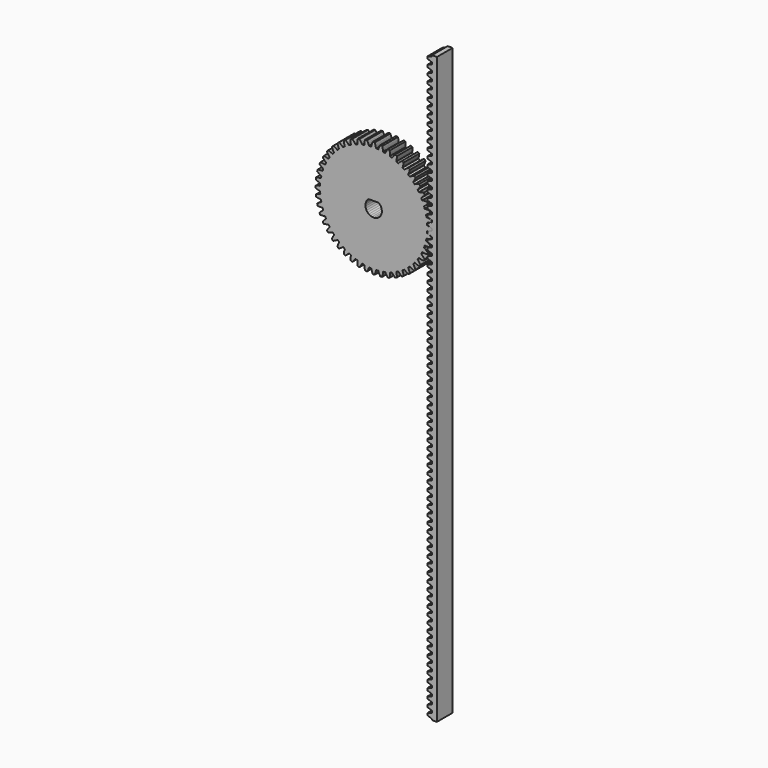
from build123d import *

# Parameters (mm, degrees)
F1_DEPTH = 6


with BuildPart() as f1:
    # F0 (on Front) → F1 (new body)
    with BuildSketch(Plane.XZ):
        Polygon((16.365782, 45.806489), (16.365782, 45.492196), (14.929314, 45.000895), (14.929314, 44.377619), (16.365782, 43.886318), (16.365782, 43.257733), (14.929314, 42.766432), (14.929314, 42.143156), (16.365782, 41.651855), (16.365782, 41.023271), (14.929314, 40.531969), (14.929314, 39.908693), (16.365782, 39.417392), (16.365782, 38.788808), (14.929314, 38.297507), (14.929314, 37.674231), (16.365782, 37.182929), (16.365782, 36.554345), (14.929314, 36.063044), (14.929314, 35.439768), (16.365782, 34.948467), (16.365782, 34.319882), (14.929314, 33.828581), (14.929314, 33.205305), (16.365782, 32.714004), (16.365782, 32.085419), (14.929314, 31.594118), (14.929314, 30.970842), (16.365782, 30.479541), (16.365782, 29.850956), (14.929314, 29.359655), (14.929314, 28.736379), (16.365782, 28.245078), (16.365782, 27.616493), (14.929314, 27.125192), (14.929314, 26.501916), (16.365782, 26.010615), (16.365782, 25.382031), (14.929314, 24.890729), (14.929314, 24.267453), (16.365782, 23.776152), (16.365782, 23.147568), (14.929314, 22.656267), (14.929314, 22.032991), (16.365782, 21.541689), (16.365782, 20.913105), (14.929314, 20.421804), (14.929314, 19.798528), (16.365782, 19.307227), (16.365782, 18.678642), (14.929314, 18.187341), (14.929314, 17.564065), (16.365782, 17.072764), (16.365782, 16.444179), (14.929314, 15.952878), (14.929314, 15.329602), (16.365782, 14.838301), (16.365782, 14.209716), (14.929314, 13.718415), (14.929314, 13.095139), (16.365782, 12.603838), (16.365782, 11.975253), (14.929314, 11.483952), (14.929314, 10.860676), (16.365782, 10.369375), (16.365782, 9.740791), (14.929314, 9.249489), (14.929314, 8.626213), (16.365782, 8.134912), (16.365782, 7.506328), (14.929314, 7.015027), (14.929314, 6.391751), (16.365782, 5.900449), (16.365782, 5.271865), (14.929314, 4.780564), (14.929314, 4.157288), (16.365782, 3.665987), (16.365782, 3.037402), (14.929314, 2.546101), (14.929314, 1.922825), (16.365782, 1.431524), (16.365782, 0.802939), (14.929314, 0.311638), (14.929314, -0.311638), (16.365782, -0.802939), (16.365782, -1.431524), (14.929314, -1.922825), (14.929314, -2.546101), (16.365782, -3.037402), (16.365782, -3.665987), (14.929314, -4.157288), (14.929314, -4.780564), (16.365782, -5.271865), (16.365782, -5.900449), (14.929314, -6.391751), (14.929314, -7.015027), (16.365782, -7.506328), (16.365782, -8.134912), (14.929314, -8.626213), (14.929314, -9.249489), (16.365782, -9.740791), (16.365782, -10.369375), (14.929314, -10.860676), (14.929314, -11.483952), (16.365782, -11.975253), (16.365782, -12.603838), (14.929314, -13.095139), (14.929314, -13.718415), (16.365782, -14.209716), (16.365782, -14.838301), (14.929314, -15.329602), (14.929314, -15.952878), (16.365782, -16.444179), (16.365782, -17.072764), (14.929314, -17.564065), (14.929314, -18.187341), (16.365782, -18.678642), (16.365782, -19.307227), (14.929314, -19.798528), (14.929314, -20.421804), (16.365782, -20.913105), (16.365782, -21.541689), (14.929314, -22.032991), (14.929314, -22.656267), (16.365782, -23.147568), (16.365782, -23.776152), (14.929314, -24.267453), (14.929314, -24.890729), (16.365782, -25.382031), (16.365782, -26.010615), (14.929314, -26.501916), (14.929314, -27.125192), (16.365782, -27.616493), (16.365782, -28.245078), (14.929314, -28.736379), (14.929314, -29.359655), (16.365782, -29.850956), (16.365782, -30.479541), (14.929314, -30.970842), (14.929314, -31.594118), (16.365782, -32.085419), (16.365782, -32.714004), (14.929314, -33.205305), (14.929314, -33.828581), (16.365782, -34.319882), (16.365782, -34.948467), (14.929314, -35.439768), (14.929314, -36.063044), (16.365782, -36.554345), (16.365782, -37.182929), (14.929314, -37.674231), (14.929314, -38.297507), (16.365782, -38.788808), (16.365782, -39.417392), (14.929314, -39.908693), (14.929314, -40.531969), (16.365782, -41.023271), (16.365782, -41.651855), (14.929314, -42.143156), (14.929314, -42.766432), (16.365782, -43.257733), (16.365782, -43.886318), (14.929314, -44.377619), (14.929314, -45.000895), (16.365782, -45.492196), (16.365782, -46.072764), (14.929314, -46.564065), (14.929314, -47.187341), (16.365782, -47.678642), (16.365782, -48.307227), (14.929314, -48.798528), (14.929314, -49.421804), (16.365782, -49.913105), (16.365782, -50.541689), (14.929314, -51.032991), (14.929314, -51.656267), (16.365782, -52.147568), (16.365782, -52.776152), (14.929314, -53.267453), (14.929314, -53.890729), (16.365782, -54.382031), (16.365782, -55.010615), (14.929314, -55.501916), (14.929314, -56.125192), (16.365782, -56.616493), (16.365782, -57.245078), (14.929314, -57.736379), (14.929314, -58.359655), (16.365782, -58.850956), (16.365782, -59.479541), (14.929314, -59.970842), (14.929314, -60.594118), (16.365782, -61.085419), (16.365782, -61.714004), (14.929314, -62.205305), (14.929314, -62.828581), (16.365782, -63.319882), (16.365782, -63.948467), (14.929314, -64.439768), (14.929314, -65.063044), (16.365782, -65.554345), (16.365782, -66.182929), (14.929314, -66.674231), (14.929314, -67.297507), (16.365782, -67.788808), (16.365782, -68.417392), (14.929314, -68.908693), (14.929314, -69.531969), (16.365782, -70.023271), (16.365782, -70.651855), (14.929314, -71.143156), (14.929314, -71.766432), (16.365782, -72.257733), (16.365782, -72.886318), (14.929314, -73.377619), (14.929314, -74.000895), (16.365782, -74.492196), (16.365782, -75.072764), (14.929314, -75.564065), (14.929314, -76.187341), (16.365782, -76.678642), (16.365782, -77.307227), (14.929314, -77.798528), (14.929314, -78.421804), (16.365782, -78.913105), (16.365782, -79.541689), (14.929314, -80.032991), (14.929314, -80.656267), (16.365782, -81.147568), (16.365782, -81.776152), (14.929314, -82.267453), (14.929314, -82.890729), (16.365782, -83.382031), (16.365782, -84.010615), (14.929314, -84.501916), (14.929314, -85.125192), (16.365782, -85.616493), (16.365782, -86.245078), (14.929314, -86.736379), (14.929314, -87.359655), (16.365782, -87.850956), (16.365782, -88.479541), (14.929314, -88.970842), (14.929314, -89.594118), (16.365782, -90.085419), (16.365782, -90.714004), (14.929314, -91.205305), (14.929314, -91.828581), (16.365782, -92.319882), (16.365782, -92.948467), (14.929314, -93.439768), (14.929314, -94.063044), (16.365782, -94.554345), (16.365782, -95.182929), (14.929314, -95.674231), (14.929314, -96.297507), (16.365782, -96.788808), (16.365782, -97.417392), (14.929314, -97.908693), (14.929314, -98.531969), (16.365782, -99.023271), (16.365782, -99.651855), (14.929314, -100.143156), (14.929314, -100.766432), (16.365782, -101.257733), (16.365782, -101.886318), (14.929314, -102.377619), (14.929314, -103.000895), (16.365782, -103.492196), (16.365782, -104.072764), (14.929314, -104.564065), (14.929314, -105.187341), (16.365782, -105.678642), (16.365782, -106.307227), (14.929314, -106.798528), (14.929314, -107.421804), (16.365782, -107.913105), (16.365782, -108.541689), (14.929314, -109.032991), (14.929314, -109.656267), (16.365782, -110.147568), (16.365782, -110.776152), (14.929314, -111.267453), (14.929314, -111.890729), (16.365782, -112.382031), (16.365782, -113.010615), (14.929314, -113.501916), (14.929314, -114.125192), (16.365782, -114.616493), (16.365782, -115.245078), (14.929314, -115.736379), (14.929314, -116.359655), (16.365782, -116.850956), (16.365782, -117.479541), (14.929314, -117.970842), (14.929314, -118.594118), (16.365782, -119.085419), (16.365782, -119.714004), (14.929314, -120.205305), (14.929314, -120.828581), (16.365782, -121.319882), (16.365782, -121.948467), (14.929314, -122.439768), (14.929314, -123.063044), (16.365782, -123.554345), (16.365782, -124.182929), (14.929314, -124.674231), (14.929314, -125.297507), (16.365782, -125.788808), (16.365782, -126.417392), (14.929314, -126.908693), (14.929314, -127.531969), (16.365782, -128.023271), (16.365782, -128.651855), (14.929314, -129.143156), (14.929314, -129.766432), (16.365782, -130.257733), (16.365782, -130.886318), (14.929314, -131.377619), (14.929314, -132.000895), (16.365782, -132.492196), (16.365782, -132.806489), (17.865782, -132.806489), (17.865782, -45.806489), (17.865782, 45.806489), align=None)
        Polygon((15.871442, -3.796686), (16.142986, -3.723257), (16.199696, -3.438155), (16.218708, -3.148091), (15.975422, -3.006883), (15.728056, -2.877389), (15.50312, -2.77187), (15.302183, -2.688097), (15.126659, -2.623754), (14.950893, -2.567891), (14.888273, -2.536368), (14.859554, -2.503561), (14.901152, -1.868907), (14.933907, -1.84013), (15.000105, -1.81705), (15.181659, -1.784606), (15.36408, -1.743724), (15.574233, -1.686896), (15.811017, -1.611639), (16.073169, -1.515541), (16.332805, -1.407296), (16.351817, -1.117231), (16.332805, -0.827167), (16.073169, -0.718922), (15.811017, -0.622824), (15.574233, -0.547567), (15.36408, -0.490739), (15.181659, -0.449857), (15.000105, -0.417413), (14.933907, -0.394333), (14.901152, -0.365556), (14.859554, 0.269098), (14.888273, 0.301905), (14.950893, 0.333428), (15.126659, 0.389291), (15.302183, 0.453634), (15.50312, 0.537407), (15.728056, 0.642926), (15.975422, 0.77242), (16.218708, 0.913628), (16.199696, 1.203693), (16.142986, 1.488794), (15.871442, 1.562224), (15.598989, 1.623282), (15.354408, 1.666989), (15.138635, 1.6959), (14.952439, 1.712622), (14.768203, 1.72109), (14.699559, 1.735332), (14.663328, 1.759588), (14.539247, 2.383383), (14.563438, 2.419657), (14.621407, 2.459084), (14.788378, 2.537411), (14.954002, 2.624114), (15.142286, 2.733398), (15.351524, 2.867374), (15.579871, 3.028049), (15.802644, 3.199804), (15.745934, 3.484905), (15.652496, 3.760165), (15.373691, 3.797523), (15.0956, 3.822497), (14.847406, 3.833905), (14.629705, 3.834406), (14.442919, 3.826681), (14.259155, 3.811029), (14.189239, 3.816189), (14.150151, 3.835508), (13.945711, 4.43777), (13.96496, 4.476892), (14.017287, 4.523548), (14.172605, 4.623), (14.325496, 4.730579), (14.497904, 4.863504), (14.687865, 5.023645), (14.893286, 5.21275), (15.091735, 5.412114), (14.998297, 5.687374), (14.869729, 5.948083), (14.588434, 5.94873), (14.309461, 5.937192), (14.061902, 5.916107), (13.845999, 5.888187), (13.661819, 5.856148), (13.481669, 5.816644), (13.411678, 5.812634), (13.370403, 5.826686), (13.0891, 6.397111), (13.103079, 6.438411), (13.148868, 6.491498), (13.289877, 6.610371), (13.427417, 6.736987), (13.581001, 6.891278), (13.748433, 7.074844), (13.927415, 7.289144), (14.098143, 7.512705), (13.969576, 7.773414), (13.808079, 8.015111), (13.529105, 7.979036), (13.254025, 7.931183), (13.011336, 7.877966), (12.800924, 7.822104), (12.622502, 7.766299), (12.44905, 7.703618), (12.380181, 7.690507), (12.337425, 7.699051), (11.984074, 8.227879), (11.992542, 8.27065), (12.03101, 8.329259), (12.155296, 8.465521), (12.275133, 8.609006), (12.407264, 8.782024), (12.549304, 8.985874), (12.698782, 9.221702), (12.83887, 9.465635), (12.677373, 9.707332), (12.48571, 9.925882), (12.213831, 9.853702), (11.947351, 9.770354), (11.713684, 9.685914), (11.512364, 9.603066), (11.342752, 9.52445), (11.178965, 9.439665), (11.112397, 9.417677), (11.068891, 9.420567), (10.649537, 9.898749), (10.65235, 9.94226), (10.682839, 10.005389), (10.788277, 10.156708), (10.88836, 10.314607), (10.996776, 10.503391), (11.110994, 10.724037), (11.228411, 10.977359), (11.335461, 11.23749), (11.143798, 11.45604), (10.925248, 11.647703), (10.665117, 11.540653), (10.411795, 11.423236), (10.191149, 11.309018), (10.002365, 11.200601), (9.844466, 11.100518), (9.693147, 10.995081), (9.630018, 10.964592), (9.586507, 10.961779), (9.108326, 11.381133), (9.105435, 11.424639), (9.127424, 11.491207), (9.212208, 11.654994), (9.290824, 11.824606), (9.373673, 12.025926), (9.458112, 12.259593), (9.54146, 12.526073), (9.61364, 12.797952), (9.39509, 12.989615), (9.153393, 13.151112), (8.90946, 13.011024), (8.673632, 12.861546), (8.469782, 12.719506), (8.296764, 12.587375), (8.153279, 12.467538), (8.017017, 12.343252), (7.958408, 12.304784), (7.915637, 12.296316), (7.386809, 12.649667), (7.378265, 12.692423), (7.391376, 12.761292), (7.454057, 12.934744), (7.509862, 13.113166), (7.565724, 13.323578), (7.618942, 13.566267), (7.666794, 13.841347), (7.702869, 14.120321), (7.461172, 14.281818), (7.200463, 14.410385), (6.976902, 14.239656), (6.762602, 14.060675), (6.579036, 13.893243), (6.424745, 13.739659), (6.298129, 13.602119), (6.179256, 13.46111), (6.126169, 13.415321), (6.084869, 13.401342), (5.514444, 13.682645), (5.500392, 13.72392), (5.504402, 13.793911), (5.543906, 13.974061), (5.575945, 14.15824), (5.603865, 14.374144), (5.62495, 14.621703), (5.636488, 14.900676), (5.635841, 15.181971), (5.375132, 15.310539), (5.099872, 15.403977), (4.900508, 15.205528), (4.711403, 15.000107), (4.551262, 14.810146), (4.418337, 14.637737), (4.310758, 14.484847), (4.211306, 14.329529), (4.164651, 14.277202), (4.125528, 14.257952), (3.523266, 14.462393), (3.503947, 14.501481), (3.498787, 14.571397), (3.514439, 14.755161), (3.522164, 14.941947), (3.521663, 15.159648), (3.510255, 15.407841), (3.485281, 15.685933), (3.447923, 15.964738), (3.172663, 16.058176), (2.887562, 16.114886), (2.715807, 15.892113), (2.555133, 15.663766), (2.421156, 15.454528), (2.311872, 15.266244), (2.225169, 15.10062), (2.146842, 14.933649), (2.107415, 14.87568), (2.071141, 14.851489), (1.447346, 14.97557), (1.42309, 15.011801), (1.408848, 15.080445), (1.40038, 15.264681), (1.383658, 15.450877), (1.354747, 15.66665), (1.31104, 15.911231), (1.249982, 16.183684), (1.176552, 16.455227), (0.891451, 16.511938), (0.601386, 16.530949), (0.460178, 16.287663), (0.330684, 16.040297), (0.225165, 15.815362), (0.141392, 15.614425), (0.077049, 15.4389), (0.021186, 15.263135), (-0.010337, 15.200515), (-0.043144, 15.171796), (-0.677798, 15.213393), (-0.706575, 15.246149), (-0.729655, 15.312347), (-0.762098, 15.493901), (-0.80298, 15.676322), (-0.859809, 15.886475), (-0.935065, 16.123259), (-1.031164, 16.385411), (-1.139409, 16.645047), (-1.429473, 16.664059), (-1.719538, 16.645047), (-1.827783, 16.385411), (-1.923881, 16.123259), (-1.999138, 15.886475), (-2.055966, 15.676322), (-2.096848, 15.493901), (-2.129292, 15.312347), (-2.152371, 15.246149), (-2.181149, 15.213393), (-2.815803, 15.171796), (-2.848609, 15.200515), (-2.880132, 15.263135), (-2.935996, 15.4389), (-3.000339, 15.614425), (-3.084112, 15.815362), (-3.189631, 16.040297), (-3.319125, 16.287663), (-3.460333, 16.530949), (-3.750397, 16.511938), (-4.035499, 16.455227), (-4.108928, 16.183684), (-4.169987, 15.911231), (-4.213693, 15.66665), (-4.242605, 15.450877), (-4.259327, 15.264681), (-4.267795, 15.080445), (-4.282037, 15.011801), (-4.306293, 14.97557), (-4.930087, 14.851489), (-4.966362, 14.87568), (-5.005789, 14.933649), (-5.084116, 15.10062), (-5.170819, 15.266244), (-5.280103, 15.454528), (-5.414079, 15.663766), (-5.574753, 15.892113), (-5.746509, 16.114886), (-6.03161, 16.058176), (-6.30687, 15.964738), (-6.344228, 15.685933), (-6.369202, 15.407841), (-6.38061, 15.159648), (-6.381111, 14.941947), (-6.373386, 14.755161), (-6.357734, 14.571397), (-6.362894, 14.501481), (-6.382213, 14.462393), (-6.984475, 14.257952), (-7.023597, 14.277202), (-7.070253, 14.329529), (-7.169705, 14.484847), (-7.277284, 14.637737), (-7.410209, 14.810146), (-7.57035, 15.000107), (-7.759455, 15.205528), (-7.958818, 15.403977), (-8.234079, 15.310539), (-8.494788, 15.181971), (-8.495434, 14.900676), (-8.483897, 14.621703), (-8.462811, 14.374144), (-8.434892, 14.15824), (-8.402853, 13.974061), (-8.363349, 13.793911), (-8.359339, 13.72392), (-8.373391, 13.682645), (-8.943816, 13.401342), (-8.985115, 13.415321), (-9.038202, 13.46111), (-9.157076, 13.602119), (-9.283691, 13.739659), (-9.437983, 13.893243), (-9.621549, 14.060675), (-9.835849, 14.239656), (-10.059409, 14.410385), (-10.320119, 14.281818), (-10.561816, 14.120321), (-10.525741, 13.841347), (-10.477888, 13.566267), (-10.424671, 13.323578), (-10.368809, 13.113166), (-10.313003, 12.934744), (-10.250323, 12.761292), (-10.237212, 12.692423), (-10.245756, 12.649667), (-10.774584, 12.296316), (-10.817355, 12.304784), (-10.875964, 12.343252), (-11.012226, 12.467538), (-11.155711, 12.587375), (-11.328729, 12.719506), (-11.532579, 12.861546), (-11.768407, 13.011024), (-12.01234, 13.151112), (-12.254037, 12.989615), (-12.472587, 12.797952), (-12.400407, 12.526073), (-12.317059, 12.259593), (-12.232619, 12.025926), (-12.149771, 11.824606), (-12.071154, 11.654994), (-11.98637, 11.491207), (-11.964382, 11.424639), (-11.967272, 11.381133), (-12.445454, 10.961779), (-12.488965, 10.964592), (-12.552093, 10.995081), (-12.703413, 11.100518), (-12.861312, 11.200601), (-13.050096, 11.309018), (-13.270742, 11.423236), (-13.524064, 11.540653), (-13.784194, 11.647703), (-14.002744, 11.45604), (-14.194407, 11.23749), (-14.087358, 10.977359), (-13.96994, 10.724037), (-13.855723, 10.503391), (-13.747306, 10.314607), (-13.647223, 10.156708), (-13.541786, 10.005389), (-13.511297, 9.94226), (-13.508484, 9.898749), (-13.927838, 9.420567), (-13.971344, 9.417677), (-14.037912, 9.439665), (-14.201699, 9.52445), (-14.37131, 9.603066), (-14.572631, 9.685914), (-14.806297, 9.770354), (-15.072778, 9.853702), (-15.344656, 9.925882), (-15.536319, 9.707332), (-15.697816, 9.465635), (-15.557729, 9.221702), (-15.40825, 8.985874), (-15.26621, 8.782024), (-15.13408, 8.609006), (-15.014243, 8.465521), (-14.889957, 8.329259), (-14.851488, 8.27065), (-14.84302, 8.227879), (-15.196372, 7.699051), (-15.239127, 7.690507), (-15.307997, 7.703618), (-15.481449, 7.766299), (-15.659871, 7.822104), (-15.870283, 7.877966), (-16.112972, 7.931183), (-16.388052, 7.979036), (-16.667025, 8.015111), (-16.828523, 7.773414), (-16.95709, 7.512705), (-16.786361, 7.289144), (-16.60738, 7.074844), (-16.439947, 6.891278), (-16.286364, 6.736987), (-16.148824, 6.610371), (-16.007815, 6.491498), (-15.962026, 6.438411), (-15.948047, 6.397111), (-16.22935, 5.826686), (-16.270625, 5.812634), (-16.340616, 5.816644), (-16.520765, 5.856148), (-16.704945, 5.888187), (-16.920848, 5.916107), (-17.168408, 5.937192), (-17.44738, 5.94873), (-17.728676, 5.948083), (-17.857244, 5.687374), (-17.950682, 5.412114), (-17.752233, 5.21275), (-17.546811, 5.023645), (-17.356851, 4.863504), (-17.184442, 4.730579), (-17.031552, 4.623), (-16.876234, 4.523548), (-16.823907, 4.476892), (-16.804657, 4.43777), (-17.009098, 3.835508), (-17.048185, 3.816189), (-17.118101, 3.811029), (-17.301866, 3.826681), (-17.488652, 3.834406), (-17.706352, 3.833905), (-17.954546, 3.822497), (-18.232638, 3.797523), (-18.511443, 3.760165), (-18.604881, 3.484905), (-18.661591, 3.199804), (-18.438818, 3.028049), (-18.21047, 2.867374), (-18.001232, 2.733398), (-17.812949, 2.624114), (-17.647325, 2.537411), (-17.480354, 2.459084), (-17.422385, 2.419657), (-17.398194, 2.383383), (-17.522274, 1.759588), (-17.558506, 1.735332), (-17.62715, 1.72109), (-17.811386, 1.712622), (-17.997582, 1.6959), (-18.213355, 1.666989), (-18.457936, 1.623282), (-18.730389, 1.562224), (-19.001932, 1.488794), (-19.058642, 1.203693), (-19.077654, 0.913628), (-18.834368, 0.77242), (-18.587002, 0.642926), (-18.362067, 0.537407), (-18.16113, 0.453634), (-17.985605, 0.389291), (-17.809839, 0.333428), (-17.74722, 0.301905), (-17.718501, 0.269098), (-17.760098, -0.365556), (-17.792854, -0.394333), (-17.859052, -0.417413), (-18.040606, -0.449857), (-18.223027, -0.490739), (-18.43318, -0.547567), (-18.669964, -0.622824), (-18.932116, -0.718922), (-19.191752, -0.827167), (-19.210764, -1.117231), (-19.191752, -1.407296), (-18.932116, -1.515541), (-18.669964, -1.611639), (-18.43318, -1.686896), (-18.223027, -1.743724), (-18.040606, -1.784606), (-17.859052, -1.81705), (-17.792854, -1.84013), (-17.760098, -1.868907), (-17.718501, -2.503561), (-17.74722, -2.536368), (-17.809839, -2.567891), (-17.985605, -2.623754), (-18.16113, -2.688097), (-18.362067, -2.77187), (-18.587002, -2.877389), (-18.834368, -3.006883), (-19.077654, -3.148091), (-19.058642, -3.438155), (-19.001932, -3.723257), (-18.730389, -3.796686), (-18.457936, -3.857745), (-18.213355, -3.901451), (-17.997582, -3.930363), (-17.811386, -3.947085), (-17.62715, -3.955553), (-17.558506, -3.969795), (-17.522274, -3.994051), (-17.398194, -4.617845), (-17.422385, -4.65412), (-17.480354, -4.693547), (-17.647325, -4.771874), (-17.812949, -4.858577), (-18.001232, -4.967861), (-18.21047, -5.101837), (-18.438818, -5.262511), (-18.661591, -5.434267), (-18.604881, -5.719368), (-18.511443, -5.994628), (-18.232638, -6.031986), (-17.954546, -6.05696), (-17.706352, -6.068368), (-17.488652, -6.068869), (-17.301866, -6.061144), (-17.118101, -6.045492), (-17.048185, -6.050652), (-17.009098, -6.069971), (-16.804657, -6.672233), (-16.823907, -6.711355), (-16.876234, -6.758011), (-17.031552, -6.857463), (-17.184442, -6.965042), (-17.356851, -7.097967), (-17.546811, -7.258108), (-17.752233, -7.447213), (-17.950682, -7.646577), (-17.857244, -7.921837), (-17.728676, -8.182546), (-17.44738, -8.183193), (-17.168408, -8.171655), (-16.920848, -8.150569), (-16.704945, -8.12265), (-16.520765, -8.090611), (-16.340616, -8.051107), (-16.270625, -8.047097), (-16.22935, -8.061149), (-15.948047, -8.631574), (-15.962026, -8.672873), (-16.007815, -8.72596), (-16.148824, -8.844834), (-16.286364, -8.971449), (-16.439947, -9.125741), (-16.60738, -9.309307), (-16.786361, -9.523607), (-16.95709, -9.747167), (-16.828523, -10.007877), (-16.667025, -10.249574), (-16.388052, -10.213499), (-16.112972, -10.165646), (-15.870283, -10.112429), (-15.659871, -10.056567), (-15.481449, -10.000761), (-15.307997, -9.938081), (-15.239127, -9.92497), (-15.196372, -9.933514), (-14.84302, -10.462342), (-14.851488, -10.505113), (-14.889957, -10.563722), (-15.014243, -10.699984), (-15.13408, -10.843469), (-15.26621, -11.016487), (-15.40825, -11.220337), (-15.557729, -11.456165), (-15.697816, -11.700098), (-15.536319, -11.941795), (-15.344656, -12.160345), (-15.072778, -12.088165), (-14.806297, -12.004817), (-14.572631, -11.920377), (-14.37131, -11.837529), (-14.201699, -11.758912), (-14.037912, -11.674128), (-13.971344, -11.65214), (-13.927838, -11.65503), (-13.508484, -12.133212), (-13.511297, -12.176723), (-13.541786, -12.239852), (-13.647223, -12.391171), (-13.747306, -12.54907), (-13.855723, -12.737854), (-13.96994, -12.9585), (-14.087358, -13.211822), (-14.194407, -13.471953), (-14.002744, -13.690503), (-13.784194, -13.882166), (-13.524064, -13.775116), (-13.270742, -13.657698), (-13.050096, -13.543481), (-12.861312, -13.435064), (-12.703413, -13.334981), (-12.552093, -13.229544), (-12.488965, -13.199055), (-12.445454, -13.196242), (-11.967272, -13.615596), (-11.964382, -13.659102), (-11.98637, -13.72567), (-12.071154, -13.889457), (-12.149771, -14.059069), (-12.232619, -14.260389), (-12.317059, -14.494056), (-12.400407, -14.760536), (-12.472587, -15.032415), (-12.254037, -15.224078), (-12.01234, -15.385574), (-11.768407, -15.245487), (-11.532579, -15.096008), (-11.328729, -14.953968), (-11.155711, -14.821838), (-11.012226, -14.702001), (-10.875964, -14.577715), (-10.817355, -14.539246), (-10.774584, -14.530778), (-10.245756, -14.88413), (-10.237212, -14.926886), (-10.250323, -14.995755), (-10.313003, -15.169207), (-10.368809, -15.347629), (-10.424671, -15.558041), (-10.477888, -15.80073), (-10.525741, -16.07581), (-10.561816, -16.354784), (-10.320119, -16.516281), (-10.059409, -16.644848), (-9.835849, -16.474119), (-9.621549, -16.295138), (-9.437983, -16.127705), (-9.283691, -15.974122), (-9.157076, -15.836582), (-9.038202, -15.695573), (-8.985115, -15.649784), (-8.943816, -15.635805), (-8.373391, -15.917108), (-8.359339, -15.958383), (-8.363349, -16.028374), (-8.402853, -16.208523), (-8.434892, -16.392703), (-8.462811, -16.608607), (-8.483897, -16.856166), (-8.495434, -17.135138), (-8.494788, -17.416434), (-8.234079, -17.545002), (-7.958818, -17.63844), (-7.759455, -17.439991), (-7.57035, -17.23457), (-7.410209, -17.044609), (-7.277284, -16.8722), (-7.169705, -16.71931), (-7.070253, -16.563992), (-7.023597, -16.511665), (-6.984475, -16.492415), (-6.382213, -16.696856), (-6.362894, -16.735944), (-6.357734, -16.805859), (-6.373386, -16.989624), (-6.381111, -17.17641), (-6.38061, -17.39411), (-6.369202, -17.642304), (-6.344228, -17.920396), (-6.30687, -18.199201), (-6.03161, -18.292639), (-5.746509, -18.349349), (-5.574753, -18.126576), (-5.414079, -17.898228), (-5.280103, -17.688991), (-5.170819, -17.500707), (-5.084116, -17.335083), (-5.005789, -17.168112), (-4.966362, -17.110143), (-4.930087, -17.085952), (-4.306293, -17.210032), (-4.282037, -17.246264), (-4.267795, -17.314908), (-4.259327, -17.499144), (-4.242605, -17.68534), (-4.213693, -17.901113), (-4.169987, -18.145694), (-4.108928, -18.418147), (-4.035499, -18.68969), (-3.750397, -18.7464), (-3.460333, -18.765412), (-3.319125, -18.522126), (-3.189631, -18.27476), (-3.084112, -18.049825), (-3.000339, -17.848888), (-2.935996, -17.673363), (-2.880132, -17.497597), (-2.848609, -17.434978), (-2.815803, -17.406259), (-2.181149, -17.447856), (-2.152371, -17.480612), (-2.129292, -17.54681), (-2.096848, -17.728364), (-2.055966, -17.910785), (-1.999138, -18.120938), (-1.923881, -18.357722), (-1.827783, -18.619874), (-1.719538, -18.87951), (-1.429473, -18.898522), (-1.139409, -18.87951), (-1.031164, -18.619874), (-0.935065, -18.357722), (-0.859809, -18.120938), (-0.80298, -17.910785), (-0.762098, -17.728364), (-0.729655, -17.54681), (-0.706575, -17.480612), (-0.677798, -17.447856), (-0.043144, -17.406259), (-0.010337, -17.434978), (0.021186, -17.497597), (0.077049, -17.673363), (0.141392, -17.848888), (0.225165, -18.049825), (0.330684, -18.27476), (0.460178, -18.522126), (0.601386, -18.765412), (0.891451, -18.7464), (1.176552, -18.68969), (1.249982, -18.418147), (1.31104, -18.145694), (1.354747, -17.901113), (1.383658, -17.68534), (1.40038, -17.499144), (1.408848, -17.314908), (1.42309, -17.246264), (1.447346, -17.210032), (2.071141, -17.085952), (2.107415, -17.110143), (2.146842, -17.168112), (2.225169, -17.335083), (2.311872, -17.500707), (2.421156, -17.688991), (2.555133, -17.898228), (2.715807, -18.126576), (2.887562, -18.349349), (3.172663, -18.292639), (3.447923, -18.199201), (3.485281, -17.920396), (3.510255, -17.642304), (3.521663, -17.39411), (3.522164, -17.17641), (3.514439, -16.989624), (3.498787, -16.805859), (3.503947, -16.735944), (3.523266, -16.696856), (4.125528, -16.492415), (4.164651, -16.511665), (4.211306, -16.563992), (4.310758, -16.71931), (4.418337, -16.8722), (4.551262, -17.044609), (4.711403, -17.23457), (4.900508, -17.439991), (5.099872, -17.63844), (5.375132, -17.545002), (5.635841, -17.416434), (5.636488, -17.135138), (5.62495, -16.856166), (5.603865, -16.608607), (5.575945, -16.392703), (5.543906, -16.208523), (5.504402, -16.028374), (5.500392, -15.958383), (5.514444, -15.917108), (6.084869, -15.635805), (6.126169, -15.649784), (6.179256, -15.695573), (6.298129, -15.836582), (6.424745, -15.974122), (6.579036, -16.127705), (6.762602, -16.295138), (6.976902, -16.474119), (7.200463, -16.644848), (7.461172, -16.516281), (7.702869, -16.354784), (7.666794, -16.07581), (7.618942, -15.80073), (7.565724, -15.558041), (7.509862, -15.347629), (7.454057, -15.169207), (7.391376, -14.995755), (7.378265, -14.926886), (7.386809, -14.88413), (7.915637, -14.530778), (7.958408, -14.539246), (8.017017, -14.577715), (8.153279, -14.702001), (8.296764, -14.821838), (8.469782, -14.953968), (8.673632, -15.096008), (8.90946, -15.245487), (9.153393, -15.385574), (9.39509, -15.224078), (9.61364, -15.032415), (9.54146, -14.760536), (9.458112, -14.494056), (9.373673, -14.260389), (9.290824, -14.059069), (9.212208, -13.889457), (9.127424, -13.72567), (9.105435, -13.659102), (9.108326, -13.615596), (9.586507, -13.196242), (9.630018, -13.199055), (9.693147, -13.229544), (9.844466, -13.334981), (10.002365, -13.435064), (10.191149, -13.543481), (10.411795, -13.657698), (10.665117, -13.775116), (10.925248, -13.882166), (11.143798, -13.690503), (11.335461, -13.471953), (11.228411, -13.211822), (11.110994, -12.9585), (10.996776, -12.737854), (10.88836, -12.54907), (10.788277, -12.391171), (10.682839, -12.239852), (10.65235, -12.176723), (10.649537, -12.133212), (11.068891, -11.65503), (11.112397, -11.65214), (11.178965, -11.674128), (11.342752, -11.758912), (11.512364, -11.837529), (11.713684, -11.920377), (11.947351, -12.004817), (12.213831, -12.088165), (12.48571, -12.160345), (12.677373, -11.941795), (12.83887, -11.700098), (12.698782, -11.456165), (12.549304, -11.220337), (12.407264, -11.016487), (12.275133, -10.843469), (12.155296, -10.699984), (12.03101, -10.563722), (11.992542, -10.505113), (11.984074, -10.462342), (12.337425, -9.933514), (12.380181, -9.92497), (12.44905, -9.938081), (12.622502, -10.000761), (12.800924, -10.056567), (13.011336, -10.112429), (13.254025, -10.165646), (13.529105, -10.213499), (13.808079, -10.249574), (13.969576, -10.007877), (14.098143, -9.747167), (13.927415, -9.523607), (13.748433, -9.309307), (13.581001, -9.125741), (13.427417, -8.971449), (13.289877, -8.844834), (13.148868, -8.72596), (13.103079, -8.672873), (13.0891, -8.631574), (13.370403, -8.061149), (13.411678, -8.047097), (13.481669, -8.051107), (13.661819, -8.090611), (13.845999, -8.12265), (14.061902, -8.150569), (14.309461, -8.171655), (14.588434, -8.183193), (14.869729, -8.182546), (14.998297, -7.921837), (15.091735, -7.646577), (14.893286, -7.447213), (14.687865, -7.258108), (14.497904, -7.097967), (14.325496, -6.965042), (14.172605, -6.857463), (14.017287, -6.758011), (13.96496, -6.711355), (13.945711, -6.672233), (14.150151, -6.069971), (14.189239, -6.050652), (14.259155, -6.045492), (14.442919, -6.061144), (14.629705, -6.068869), (14.847406, -6.068368), (15.0956, -6.05696), (15.373691, -6.031986), (15.652496, -5.994628), (15.745934, -5.719368), (15.802644, -5.434267), (15.579871, -5.262511), (15.351524, -5.101837), (15.142286, -4.967861), (14.954002, -4.858577), (14.788378, -4.771874), (14.621407, -4.693547), (14.563438, -4.65412), (14.539247, -4.617845), (14.663328, -3.994051), (14.699559, -3.969795), (14.768203, -3.955553), (14.952439, -3.947085), (15.138635, -3.930363), (15.354408, -3.901451), (15.598989, -3.857745), align=None)
        Polygon((-0.407031, -3.413675), (-0.906831, -3.57607), (-1.429473, -3.631002), (-1.952116, -3.57607), (-2.451916, -3.413675), (-2.907031, -3.150915), (-3.297569, -2.799272), (-3.606463, -2.374117), (-3.820211, -1.894029), (-3.929473, -1.379992), (-3.929473, -0.854471), (-3.820211, -0.340434), (-3.606463, 0.139654), (-3.297569, 0.564809), (-2.959734, 0.868998), (0.100787, 0.868998), (0.438622, 0.564809), (0.747516, 0.139654), (0.961265, -0.340434), (1.070527, -0.854471), (1.070527, -1.379992), (0.961265, -1.894029), (0.747516, -2.374117), (0.438622, -2.799272), (0.048084, -3.150915), align=None, mode=Mode.SUBTRACT)
    extrude(amount=F1_DEPTH)


solid = f1.part
